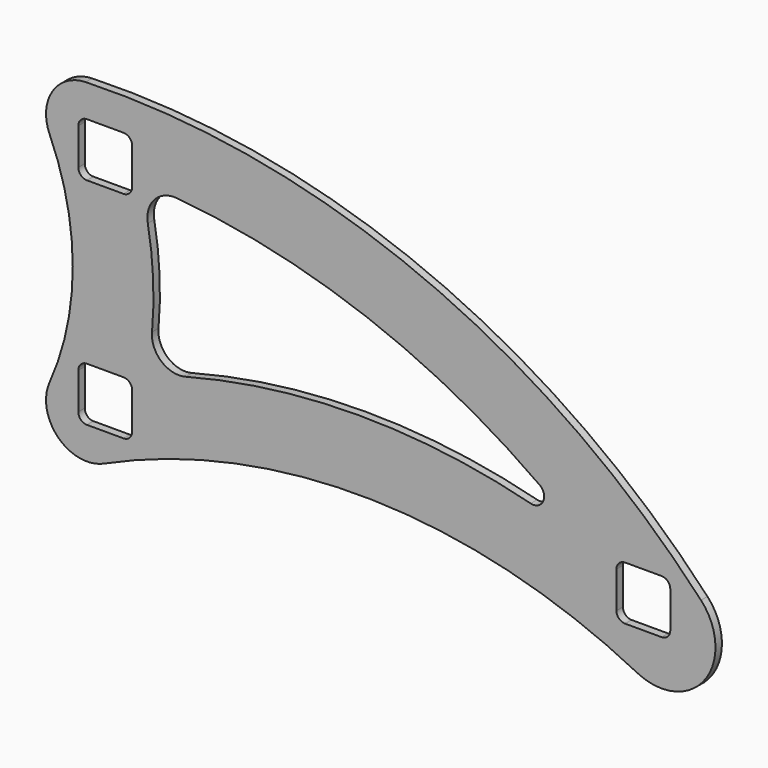
from build123d import *

# Parameters (mm, degrees)
F1_DEPTH = 15


with BuildPart() as f1:
    # F0 (on Front) → F1 (new body)
    with BuildSketch(Plane.XZ):
        with BuildLine():
            ThreePointArc((1107.101753, 34.235868), (586.751875, 395.624101), (-36.379027, 509.962756))
            ThreePointArc((-36.379027, 509.962756), (-98.36833, 474.406907), (-103.44591, 403.125))
            ThreePointArc((-103.44591, 403.125), (-60.326895, 200), (-103.44591, -3.125))
            ThreePointArc((-103.44591, -3.125), (-87.483674, -87.995339), (-2.465205, -103.148801))
            ThreePointArc((-2.465205, -103.148801), (495.483641, -0.234697), (988.85618, -123.230239))
            ThreePointArc((988.85618, -123.230239), (1113.9644, -94.047438), (1107.101753, 34.235868))
        make_face()
        with BuildLine():
            ThreePointArc((50, -34), (45.313708, -45.313708), (34, -50))
            Line((34, -50), (-34, -50))
            ThreePointArc((-34, -50), (-45.313708, -45.313708), (-50, -34))
            Line((-50, -34), (-50, 34))
            ThreePointArc((-50, 34), (-45.313708, 45.313708), (-34, 50))
            Line((-34, 50), (34, 50))
            ThreePointArc((34, 50), (45.313708, 45.313708), (50, 34))
            Line((50, 34), (50, -34))
        make_face(mode=Mode.SUBTRACT)
        with BuildLine():
            Line((1050, 34), (1050, -34))
            ThreePointArc((1050, -34), (1045.313708, -45.313708), (1034, -50))
            Line((1034, -50), (966, -50))
            ThreePointArc((966, -50), (954.686292, -45.313708), (950, -34))
            Line((950, -34), (950, 34))
            ThreePointArc((950, 34), (954.686292, 45.313708), (966, 50))
            Line((966, 50), (1034, 50))
            ThreePointArc((1034, 50), (1045.313708, 45.313708), (1050, 34))
        make_face(mode=Mode.SUBTRACT)
        with BuildLine():
            ThreePointArc((149.481493, 88.427157), (104.506201, 98.635472), (87.018095, 141.310439))
            ThreePointArc((87.018095, 141.310439), (89.018748, 229.158811), (79.152377, 316.474296))
            ThreePointArc((79.152377, 316.474296), (91.419134, 359.147675), (132.803985, 375.234464))
            ThreePointArc((132.803985, 375.234464), (486.733127, 295.288781), (807.261682, 125.234098))
            ThreePointArc((807.261682, 125.234098), (813.755574, 100.507253), (790.63485, 89.597644))
            ThreePointArc((790.63485, 89.597644), (469.983348, 129.997877), (149.481493, 88.427157))
        make_face(mode=Mode.SUBTRACT)
        with BuildLine():
            ThreePointArc((-34, 350), (-45.313708, 354.686292), (-50, 366))
            Line((-50, 366), (-50, 434))
            ThreePointArc((-50, 434), (-45.313708, 445.313708), (-34, 450))
            Line((-34, 450), (34, 450))
            ThreePointArc((34, 450), (45.313708, 445.313708), (50, 434))
            Line((50, 434), (50, 366))
            ThreePointArc((50, 366), (45.313708, 354.686292), (34, 350))
            Line((34, 350), (-34, 350))
        make_face(mode=Mode.SUBTRACT)
    extrude(amount=F1_DEPTH)


solid = f1.part
